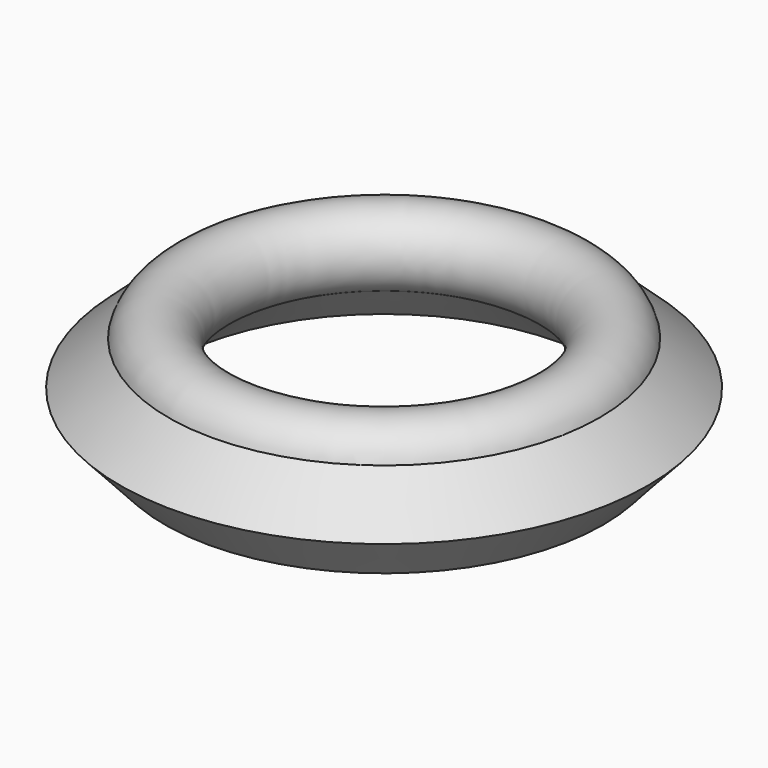
from build123d import *


with BuildPart() as f2:
    # F0 (on Front) → F2 (revolve)
    with BuildSketch(Plane.XZ):
        with BuildLine():
            ThreePointArc((65.393923, 19.792264), (46.67218, 25.352041), (50.463159, 6.193668))
            Line((50.463159, 6.193668), (66.505775, -8.42745))
            Line((66.505775, -8.42745), (80.050623, 6.43426))
            Line((80.050623, 6.43426), (65.393923, 19.792264))
        make_face()
    revolve(axis=Axis((0, 0, 0.094999), (0, 0, 1)))


solid = f2.part
